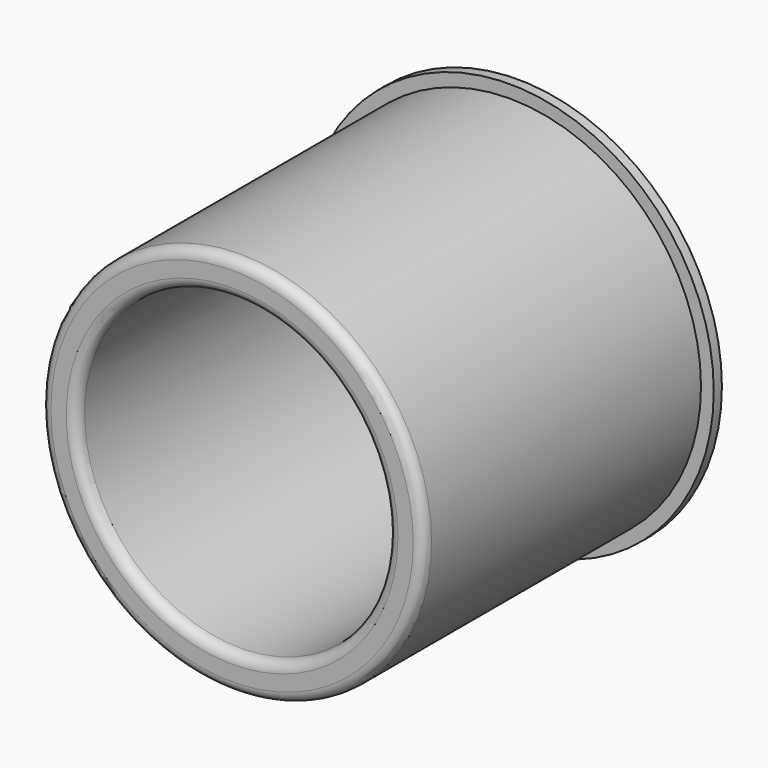
from build123d import *

# Parameters (mm, degrees)
F0_R     = 40
F0_R_2   = 37.5
F1_DEPTH = 2
F0_R_3   = 30.5
F2_DEPTH = 7
F3_DEPTH = 70
F4_R     = 2
F5_R     = 2


with BuildPart() as f1:
    # F0 (on Front) → F1 (new body)
    with BuildSketch(Plane.XZ):
        Circle(F0_R)
        Circle(F0_R_2, mode=Mode.SUBTRACT)
    extrude(amount=F1_DEPTH)


with BuildPart() as f2:
    # F0 (on Front) → F2 (new body)
    with BuildSketch(Plane.XZ):
        Circle(F0_R_3)
    extrude(amount=F2_DEPTH)


with BuildPart() as f3:
    # F0 (on Front) → F3 (new body)
    with BuildSketch(Plane.XZ):
        Circle(F0_R_2)
        Circle(F0_R_3, mode=Mode.SUBTRACT)
    extrude(amount=F3_DEPTH)

    # F4
    f4_edges = [f3.edges().sort_by_distance(p)[0] for p in [
        (-37.5, -70, 0),
    ]]
    fillet(f4_edges, radius=F4_R)

    # F5
    f5_edges = [f3.edges().sort_by_distance(p)[0] for p in [
        (-30.5, -70, 0),
    ]]
    fillet(f5_edges, radius=F5_R)


solid = Compound([f1.part, f2.part, f3.part])
